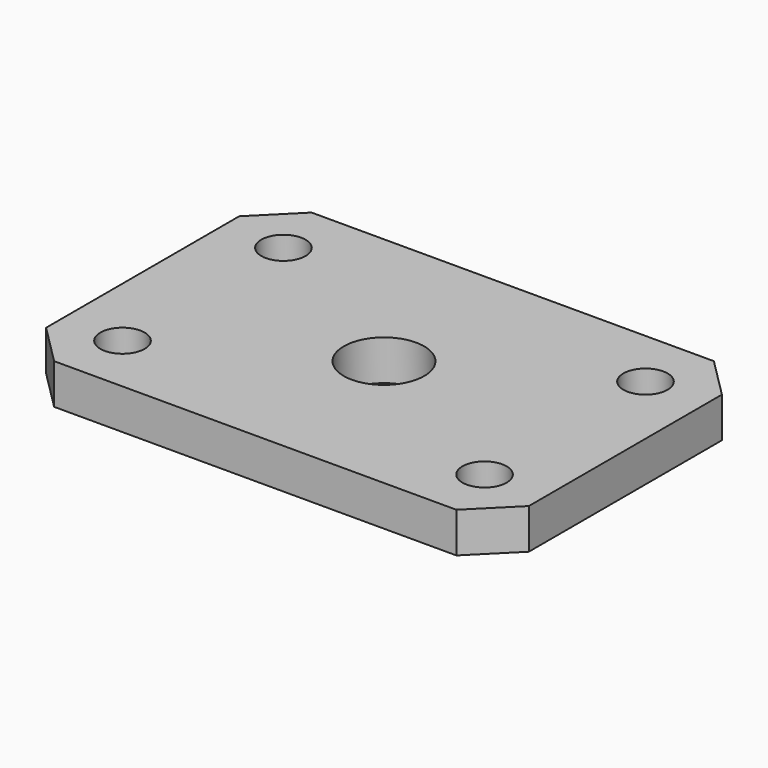
from build123d import *

# Parameters (mm, degrees)
F0_W     = 120
F0_H     = 80
F1_DEPTH = 5
F3_D     = 11
F4_D     = 20
F5_SIZE  = 10


with BuildPart() as f1:
    # F0 (on Top) → F1 (new body, symmetric)
    with BuildSketch(Plane.XY):
        Rectangle(F0_W, F0_H)
    extrude(amount=F1_DEPTH, both=True)

    # F3 (through all)
    with Locations(Plane.XY.offset(5)):
        with Locations((-45, 25), (45, 25), (45, -25), (-45, -25)):
            Hole(F3_D / 2)

    # F4 (through all)
    with Locations(Plane.XY.offset(5)):
        with Locations((0, 0)):
            Hole(F4_D / 2)

    # F5
    f5_edges = [f1.edges().sort_by_distance(p)[0] for p in [
        (-60, -40, 0),
        (-60, 40, 0),
        (60, -40, 0),
        (60, 40, 0),
    ]]
    chamfer(f5_edges, length=F5_SIZE)


solid = f1.part
